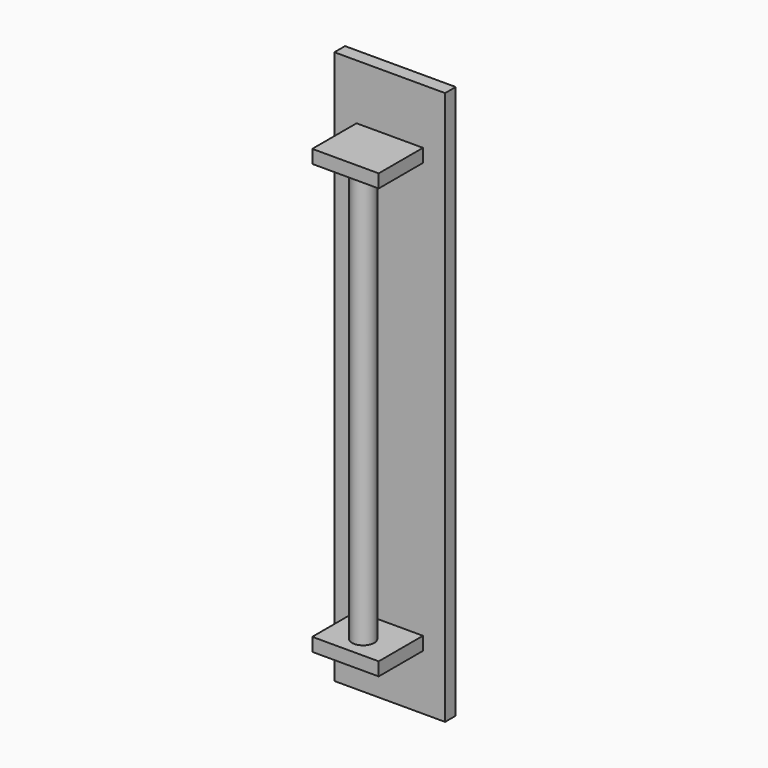
from build123d import *

# Parameters (mm, degrees)
F0_W     = 50
F0_H     = 250
F1_DEPTH = 6
F2_W     = 30
F2_H     = 6
F3_DEPTH = 25
F4_R     = 5
F5_DEPTH = 188


with BuildPart() as f1:
    # F0 (on Front) → F1 (new body)
    with BuildSketch(Plane.XZ):
        Rectangle(F0_W, F0_H)
    extrude(amount=F1_DEPTH)

    # F2 (on face) → F3 (join)
    with BuildSketch(Plane.XZ.offset(6)):
        with Locations((0, 97)):
            Rectangle(F2_W, F2_H)
        with Locations((0, -97)):
            Rectangle(F2_W, F2_H)
    extrude(amount=F3_DEPTH)

    # F4 (on face) → F5 (join, through all)
    with BuildSketch(Plane(origin=(0, 0, 94), x_dir=(1, 0, 0), z_dir=(0, 0, -1))):
        with Locations((0, 21)):
            Circle(F4_R)
    extrude(amount=F5_DEPTH)


solid = f1.part
